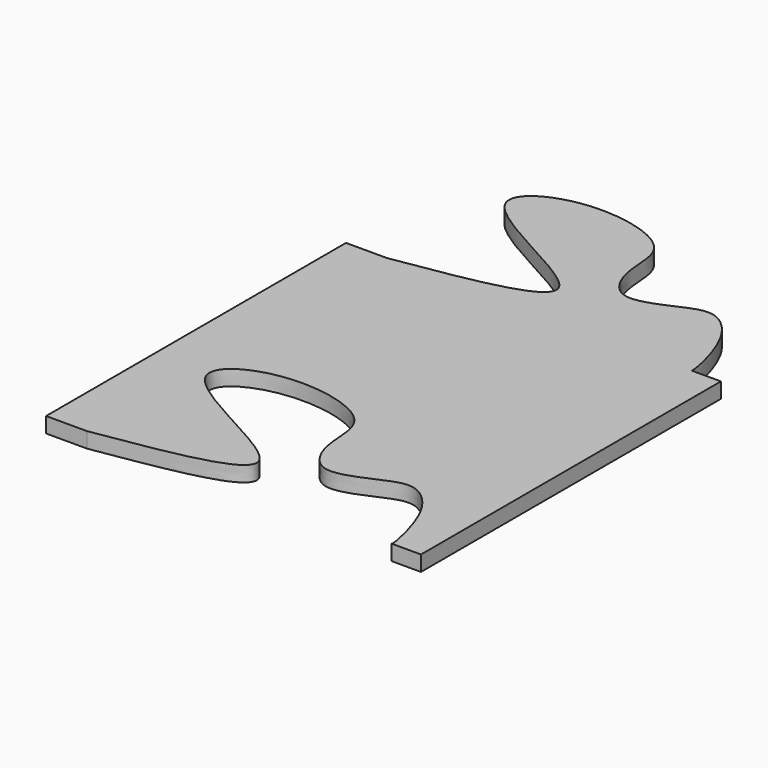
from build123d import *

# Parameters (mm, degrees)
F0_W     = 73
F0_H     = 73
F1_DEPTH = 3
F3_DEPTH = 3.001
F5_DEPTH = 3


with BuildPart() as f1:
    # F0 (on Top) → F1 (new body)
    with BuildSketch(Plane.XY):
        with Locations((24.2469399944, 17.0878475308)):
            Rectangle(F0_W, F0_H)
    extrude(amount=F1_DEPTH)

    # F2 (on face) → F3 (cut, through all)
    with BuildSketch(Plane.XY.offset(3)):
        with BuildLine():
            add(Edge.make_bspline(
                [(-4.2530600056, -19.4121524692), (9.7614755937, -17.1646439544), (38.83222382, -12.7984268668), (-10.3147384332, 4.5448152904), (7.2786524363, 15.6936316041), (28.0232952981, 11.1609458484), (26.0987060671, 0.1510895132), (31.1480240981, -9.3054055137), (42.1981525123, -2.7500045604), (47.3404282577, -2.4848224363), (53.0944368924, -8.4668601942), (55.346748887, -18.9851613792), (55.0454482436, -19.4121524692)],
                knots=[0, 0, 0, 0, 0.1463750981, 0.2951901159, 0.3861942989, 0.5066606382, 0.5906148998, 0.6688839114, 0.7599955961, 0.8200633851, 0.9008581497, 0.9888489562, 0.9888489562, 0.9888489562, 0.9888489562], degree=3))
            Line((-4.2530600056, -19.4121524692), (54.8836812377, -19.4121524692))
            Line((54.8836812377, -19.4121524692), (55.0454482436, -19.4121524692))
        make_face()
        with BuildLine():
            add(Edge.make_bspline(
                [(55.0454482436, -19.4121524692), (55.0072645197, -19.4662648989), (54.9453841617, -19.4391698381), (54.8836812377, -19.4121524692)],
                knots=[0.9888489562, 0.9888489562, 0.9888489562, 0.9888489562, 1, 1, 1, 1], degree=3))
            Line((55.0454482436, -19.4121524692), (54.8836812377, -19.4121524692))
        make_face()
    extrude(amount=-F3_DEPTH, mode=Mode.SUBTRACT)

    # F4 (on Top) → F5 (join)
    with BuildSketch(Plane.XY):
        with BuildLine():
            add(Edge.make_bspline(
                [(-4.2530600056, 53.5878475308), (9.7572836683, 55.8346837873), (38.8549281853, 60.1016164588), (-10.3019966607, 77.4812889746), (7.2935711292, 88.6235782131), (28.0376014143, 84.0929381985), (26.1131922913, 73.0819169154), (31.1622810393, 63.628209063), (42.2131805352, 70.1733685201), (47.353238474, 70.4682185098), (53.1103988271, 64.3540782432), (55.3329460523, 54.2565977801), (55.059871085, 53.5878475308)],
                knots=[0, 0, 0, 0, 0.1463313155, 0.2951225623, 0.3861122087, 0.5065593053, 0.5905001565, 0.6687566658, 0.7598537967, 0.8199119908, 0.9006938496, 0.9883809185, 0.9883809185, 0.9883809185, 0.9883809185], degree=3))
            Line((-4.2530600056, 53.5878475308), (55.059871085, 53.5878475308))
        make_face()
    extrude(amount=F5_DEPTH)


solid = f1.part
